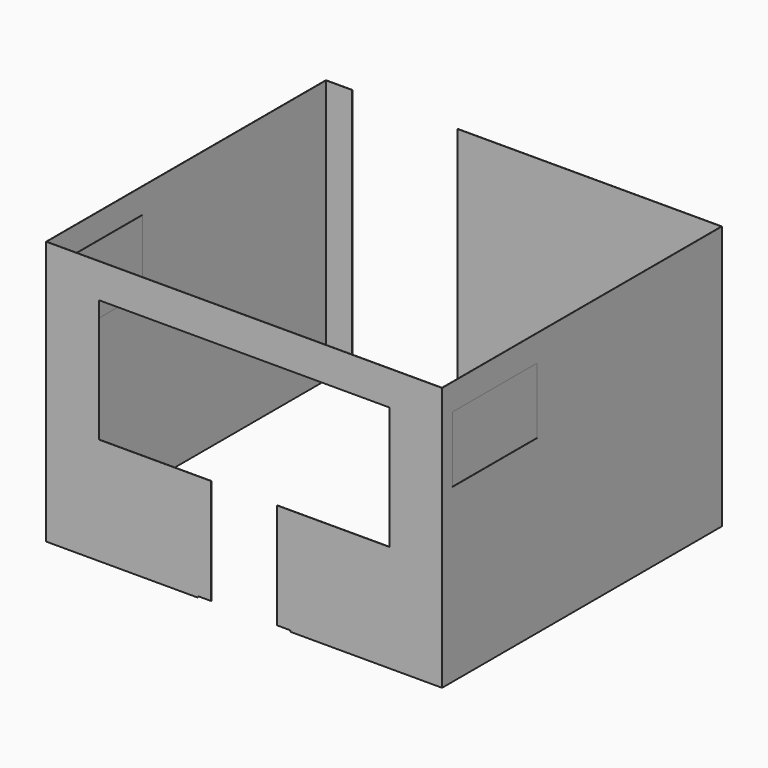
from build123d import *

# Parameters (mm, degrees)
F0_W      = 3000
F0_H      = 2650
F0_W_2    = 2996
F0_H_2    = 2646
F1_DEPTH  = 2000
F3_DEPTH  = 2
F4_W      = 800
F4_H      = 500
F6_DEPTH  = 2
F5_W      = 800
F5_H      = 500
F7_DEPTH  = 2
F8_W      = 820
F8_H      = 520
F9_DEPTH  = 2
F10_W     = 820
F10_H     = 520
F11_DEPTH = 2
F12_W     = 800
F12_H     = 2000
F13_DEPTH = 2


with BuildPart() as f1:
    # F0 (on Top) → F1 (new body)
    with BuildSketch(Plane.XY):
        Rectangle(F0_W, F0_H)
        Rectangle(F0_W_2, F0_H_2, mode=Mode.SUBTRACT)
    extrude(amount=F1_DEPTH)

    # F2 (on face) → F3 (cut)
    with BuildSketch(Plane.XZ.offset(1325)):
        Polygon((1100, 1740), (0, 1740), (-1100, 1740), (-1100, 810), (-350, 810), (-250, 810), (-250, 10), (-350, 10), (-350, 0), (0, 0), (350, 0), (350, 10), (250, 10), (250, 810), (1100, 810), align=None)
    extrude(amount=-F3_DEPTH, mode=Mode.SUBTRACT)

    # F4 (on face) → F6 (cut)
    with BuildSketch(Plane(origin=(-1500, 0, 0), x_dir=(0, -1, 0), z_dir=(-1, 0, 0))):
        with Locations((825, 1550)):
            Rectangle(F4_W, F4_H)
    extrude(amount=-F6_DEPTH, mode=Mode.SUBTRACT)

    # F5 (on face) → F7 (cut)
    with BuildSketch(Plane.YZ.offset(1500)):
        with Locations((-825, 1550)):
            Rectangle(F5_W, F5_H)
    extrude(amount=-F7_DEPTH, mode=Mode.SUBTRACT)

    # F12 (on face) → F13 (cut)
    with BuildSketch(Plane(origin=(0, 1325, 0), x_dir=(-1, 0, 0), z_dir=(0, 1, 0))):
        with Locations((900, 1000)):
            Rectangle(F12_W, F12_H)
    extrude(amount=-F13_DEPTH, mode=Mode.SUBTRACT)


with BuildPart() as f9:
    # F8 (on face) → F9 (new body)
    with BuildSketch(Plane(origin=(1498, 0, 0), x_dir=(0, -1, 0), z_dir=(-1, 0, 0))):
        with Locations((825, 1550)):
            Rectangle(F8_W, F8_H)
    extrude(amount=F9_DEPTH)


with BuildPart() as f11:
    # F10 (on face) → F11 (new body)
    with BuildSketch(Plane.YZ.offset(-1498)):
        with Locations((-825, 1550)):
            Rectangle(F10_W, F10_H)
    extrude(amount=F11_DEPTH)


solid = Compound([f1.part, f9.part, f11.part])
